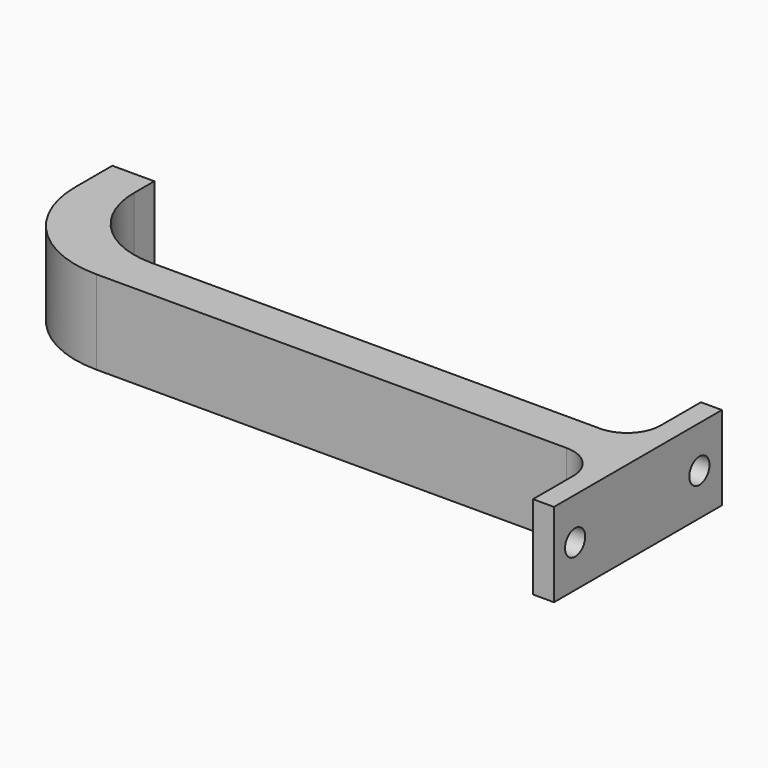
from build123d import *

# Parameters (mm, degrees)
F1_DEPTH = 20
F2_R     = 25
F3_R     = 8
F4_R     = 3
F5_DEPTH = 25
F6_R     = 20


with BuildPart() as f1:
    # F0 (on Top) → F1 (new body)
    with BuildSketch(Plane.XY):
        Polygon((95.607106, 36.108327), (95.607106, 16.108327), (-39.392894, 16.108327), (-39.392894, 42.108327), (-49.392894, 42.108327), (-49.392894, 6.108327), (95.607106, 6.108327), (95.607106, -13.891673), (100.607106, -13.891673), (100.607106, 16.108327), (100.607106, 36.108327), align=None)
    extrude(amount=F1_DEPTH)

    # F2
    f2_edges = [f1.edges().sort_by_distance(p)[0] for p in [
        (-49.392894, 6.108327, 10),
    ]]
    fillet(f2_edges, radius=F2_R)

    # F3
    f3_edges = [f1.edges().sort_by_distance(p)[0] for p in [
        (95.607106, 6.108327, 10),
        (95.607106, 16.108327, 10),
    ]]
    fillet(f3_edges, radius=F3_R)

    # F4 (on face) → F5 (cut)
    with BuildSketch(Plane(origin=(95.607106, 0, 0), x_dir=(0, -1, 0), z_dir=(-1, 0, 0))):
        with Locations((7.59841, 10)):
            Circle(F4_R)
        with Locations((-29.40159, 10)):
            Circle(F4_R)
    extrude(amount=-F5_DEPTH, mode=Mode.SUBTRACT)

    # F6
    f6_edges = [f1.edges().sort_by_distance(p)[0] for p in [
        (-39.392894, 16.108327, 10),
    ]]
    fillet(f6_edges, radius=F6_R)


solid = f1.part
